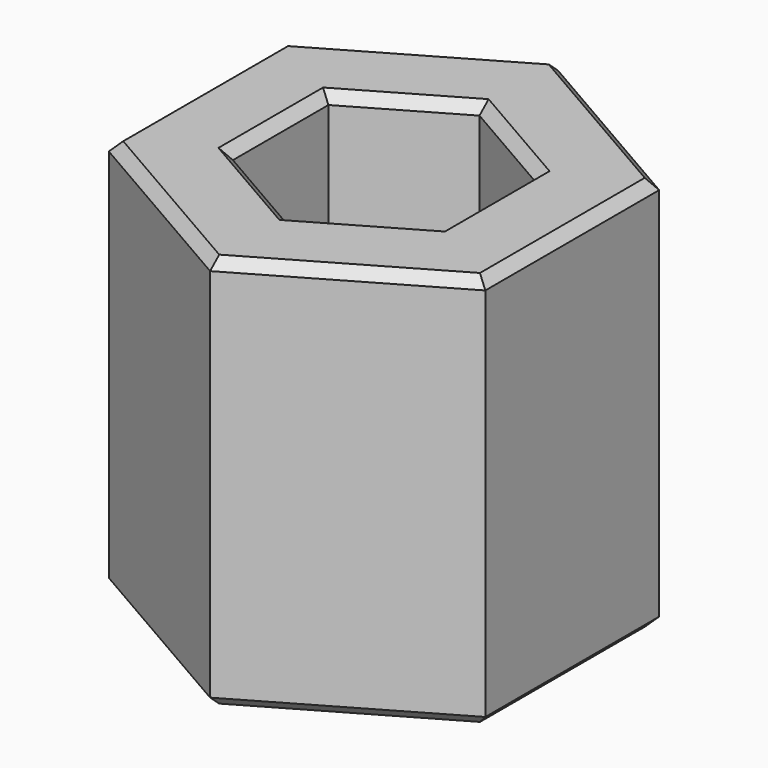
from build123d import *

# Parameters (mm, degrees)
F1_DEPTH = 10
F2_SIZE  = 0.25


with BuildPart() as f1:
    # F0 (on Top) → F1 (new body)
    with BuildSketch(Plane.XY):
        Polygon((4.7625, -2.749631), (4.7625, 2.749631), (0, 5.499261), (-4.7625, 2.749631), (-4.7625, -2.749631), (0, -5.499261), align=None)
        Polygon((0, 3.019542), (2.615, 1.509771), (2.615, -1.509771), (0, -3.019542), (-2.615, -1.509771), (-2.615, 1.509771), align=None, mode=Mode.SUBTRACT)
    extrude(amount=F1_DEPTH)

    # F2
    f2_edges = [f1.edges().sort_by_distance(p)[0] for p in [
        (-2.38125, -4.124446, 10),
        (2.38125, -4.124446, 10),
        (4.7625, 0, 10),
        (2.38125, 4.124446, 10),
        (-1.3075, 2.264656, 10),
        (-1.3075, -2.264656, 10),
        (2.615, 0, 10),
        (-4.7625, 0, 10),
        (-2.615, 0, 10),
        (-2.38125, 4.124446, 10),
        (1.3075, 2.264656, 10),
        (1.3075, -2.264656, 10),
        (-2.615, 0, 0),
        (-1.3075, -2.264656, 0),
        (2.38125, 4.124446, 0),
        (-1.3075, 2.264656, 0),
        (-2.38125, -4.124446, 0),
        (1.3075, -2.264656, 0),
        (4.7625, 0, 0),
        (-4.7625, 0, 0),
        (-2.38125, 4.124446, 0),
        (2.615, 0, 0),
        (2.38125, -4.124446, 0),
        (1.3075, 2.264656, 0),
    ]]
    chamfer(f2_edges, length=F2_SIZE)


solid = f1.part
